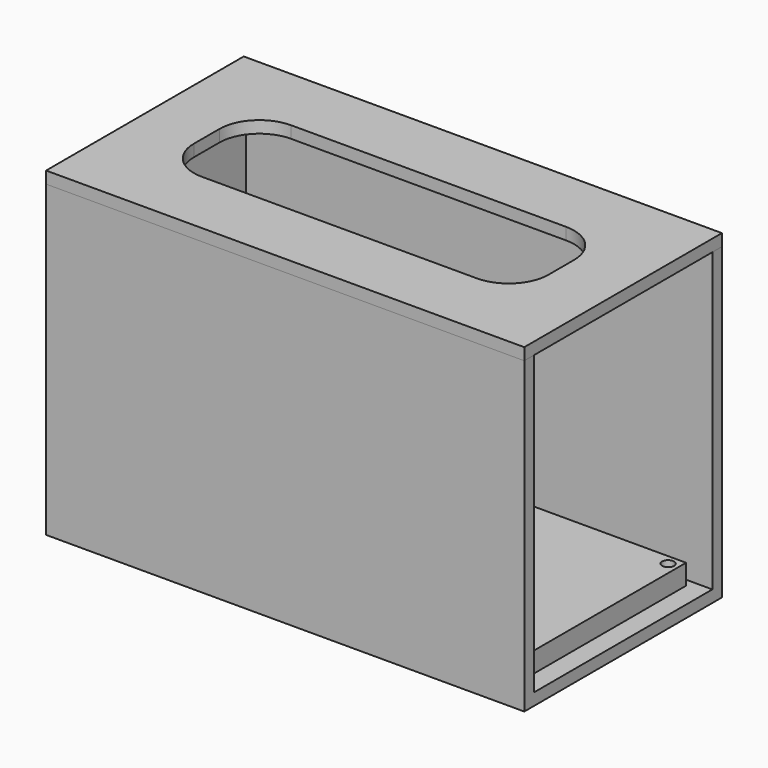
from build123d import *

# Parameters (mm, degrees)
F0_W      = 120
F0_H      = 62
F1_DEPTH  = 77.5
F3_DEPTH  = 74.5
F5_DEPTH  = 3
F7_DEPTH  = 5.08
F9_DEPTH  = 5.08
F11_DEPTH = 5.08


with BuildPart() as f1:
    # F0 (on Top) → F1 (new body)
    with BuildSketch(Plane.XY):
        with Locations((-4.624794, -16.188201)):
            Rectangle(F0_W, F0_H)
    extrude(amount=F1_DEPTH)

    # F2 (on face) → F3 (cut)
    with BuildSketch(Plane.XY.offset(77.5)):
        Polygon((55.375206, -44.188201), (55.375206, 11.811799), (24.783194, 11.811799), (-61.624794, 11.811799), (-61.624794, -16.188201), (-61.624794, -44.188201), (24.551408, -44.188201), align=None)
    extrude(amount=-F3_DEPTH, mode=Mode.SUBTRACT)

    # F8 (on face) → F9 (join)
    with BuildSketch(Plane.XY.offset(3)):
        Polygon((-31.624794, -41.188201), (-31.624794, -26.188201), (-58.624794, -26.188201), (-58.624794, -33.688201), (-58.624794, -41.188201), (-45.124794, -41.188201), align=None)
    extrude(amount=F9_DEPTH)

    # F10 (on face) → F11 (join)
    with BuildSketch(Plane.XY.offset(3)):
        Polygon((-9.124794, -25.16969), (-9.124794, 11.811799), (-54.124794, 11.811799), (-54.124794, -6.66969), (-54.124794, -25.16969), align=None)
    extrude(amount=F11_DEPTH)


with BuildPart() as f5:
    # F4 (on face) → F5 (new body)
    with BuildSketch(Plane.XY.offset(77.5)):
        with BuildLine():
            Line((-21.697029, 14.811799), (-64.624794, 14.811799))
            Line((-64.624794, 14.811799), (-64.624794, -18.261954))
            Line((-64.624794, -18.261954), (-49.124794, -18.261954))
            Line((-49.124794, -18.261954), (-49.124794, -12.188201))
            ThreePointArc((-49.124794, -12.188201), (-46.195862, -5.117134), (-39.124794, -2.188201))
            Line((-39.124794, -2.188201), (-21.697029, -2.188201))
            Line((-21.697029, -2.188201), (-21.697029, 14.811799))
        make_face()
        with BuildLine():
            Line((-21.697029, 14.811799), (-64.624794, 14.811799))
            Line((-64.624794, 14.811799), (-64.624794, -18.261954))
            Line((-64.624794, -18.261954), (-49.124794, -18.261954))
            Line((-49.124794, -18.261954), (-49.124794, -12.188201))
            ThreePointArc((-49.124794, -12.188201), (-46.195862, -5.117134), (-39.124794, -2.188201))
            Line((-39.124794, -2.188201), (-21.697029, -2.188201))
            Line((-21.697029, -2.188201), (-21.697029, 14.811799))
        make_face()
        with BuildLine():
            Line((55.375206, 14.811799), (-21.697029, 14.811799))
            Line((-21.697029, 14.811799), (-21.697029, -2.188201))
            Line((-21.697029, -2.188201), (29.875206, -2.188201))
            ThreePointArc((29.875206, -2.188201), (36.946274, -5.117134), (39.875206, -12.188201))
            Line((39.875206, -12.188201), (39.875206, -18.825031))
            Line((39.875206, -18.825031), (55.375206, -18.825031))
            Line((55.375206, -18.825031), (55.375206, 14.811799))
        make_face()
        with BuildLine():
            Line((55.375206, -47.188201), (55.375206, -18.825031))
            Line((55.375206, -18.825031), (39.875206, -18.825031))
            Line((39.875206, -18.825031), (39.875206, -20.188201))
            ThreePointArc((39.875206, -20.188201), (36.946274, -27.259269), (29.875206, -30.188201))
            Line((29.875206, -30.188201), (-20.468894, -30.188201))
            Line((-20.468894, -30.188201), (-20.468894, -47.188201))
            Line((-20.468894, -47.188201), (55.375206, -47.188201))
        make_face()
        with BuildLine():
            Line((-49.124794, -18.261954), (-64.624794, -18.261954))
            Line((-64.624794, -18.261954), (-64.624794, -47.188201))
            Line((-64.624794, -47.188201), (-20.468894, -47.188201))
            Line((-20.468894, -47.188201), (-20.468894, -30.188201))
            Line((-20.468894, -30.188201), (-39.124794, -30.188201))
            ThreePointArc((-39.124794, -30.188201), (-46.195862, -27.259269), (-49.124794, -20.188201))
            Line((-49.124794, -20.188201), (-49.124794, -18.261954))
        make_face()
        with BuildLine():
            Line((-49.124794, -18.261954), (-64.624794, -18.261954))
            Line((-64.624794, -18.261954), (-64.624794, -47.188201))
            Line((-64.624794, -47.188201), (-20.468894, -47.188201))
            Line((-20.468894, -47.188201), (-20.468894, -30.188201))
            Line((-20.468894, -30.188201), (-39.124794, -30.188201))
            ThreePointArc((-39.124794, -30.188201), (-46.195862, -27.259269), (-49.124794, -20.188201))
            Line((-49.124794, -20.188201), (-49.124794, -18.261954))
        make_face()
        with BuildLine():
            Line((55.375206, -47.188201), (55.375206, -18.825031))
            Line((55.375206, -18.825031), (39.875206, -18.825031))
            Line((39.875206, -18.825031), (39.875206, -20.188201))
            ThreePointArc((39.875206, -20.188201), (36.946274, -27.259269), (29.875206, -30.188201))
            Line((29.875206, -30.188201), (-20.468894, -30.188201))
            Line((-20.468894, -30.188201), (-20.468894, -47.188201))
            Line((-20.468894, -47.188201), (55.375206, -47.188201))
        make_face()
        with BuildLine():
            Line((55.375206, 14.811799), (-21.697029, 14.811799))
            Line((-21.697029, 14.811799), (-21.697029, -2.188201))
            Line((-21.697029, -2.188201), (29.875206, -2.188201))
            ThreePointArc((29.875206, -2.188201), (36.946274, -5.117134), (39.875206, -12.188201))
            Line((39.875206, -12.188201), (39.875206, -18.825031))
            Line((39.875206, -18.825031), (55.375206, -18.825031))
            Line((55.375206, -18.825031), (55.375206, 14.811799))
        make_face()
    extrude(amount=F5_DEPTH)


with BuildPart() as f7:
    # F6 (on face) → F7 (new body)
    with BuildSketch(Plane.XY.offset(3)):
        with BuildLine():
            Line((50.375206, -13.575806), (50.375206, 9.811799))
            Line((50.375206, 9.811799), (48.935866, 8.372459))
            ThreePointArc((48.935866, 8.372459), (49.261025, 7.885824), (49.375206, 7.311799))
            ThreePointArc((49.375206, 7.311799), (48.449231, 5.925979), (46.814546, 6.251138))
            Line((46.814546, 6.251138), (45.375206, 4.811799))
            Line((45.375206, 4.811799), (45.375206, -37.188201))
            Line((45.375206, -37.188201), (46.814546, -38.627541))
            ThreePointArc((46.814546, -38.627541), (48.449231, -38.302382), (49.375206, -39.688201))
            ThreePointArc((49.375206, -39.688201), (49.261025, -40.262227), (48.935866, -40.748862))
            Line((48.935866, -40.748862), (50.375206, -42.188201))
            Line((50.375206, -42.188201), (50.375206, -13.575806))
        make_face()
        with BuildLine():
            Line((48.935866, 8.372459), (50.375206, 9.811799))
            Line((50.375206, 9.811799), (24.375206, 9.811799))
            Line((24.375206, 9.811799), (-1.624794, 9.811799))
            Line((-1.624794, 9.811799), (-0.185454, 8.372459))
            ThreePointArc((-0.185454, 8.372459), (1.449231, 8.697618), (2.375206, 7.311799))
            ThreePointArc((2.375206, 7.311799), (2.261025, 6.737773), (1.935866, 6.251138))
            Line((1.935866, 6.251138), (3.375206, 4.811799))
            Line((3.375206, 4.811799), (45.375206, 4.811799))
            Line((45.375206, 4.811799), (46.814546, 6.251138))
            ThreePointArc((46.814546, 6.251138), (46.814546, 8.372459), (48.935866, 8.372459))
        make_face()
        with BuildLine():
            Line((-0.185454, 8.372459), (-1.624794, 9.811799))
            Line((-1.624794, 9.811799), (-1.624794, -13.117866))
            Line((-1.624794, -13.117866), (3.375206, -13.117866))
            Line((3.375206, -13.117866), (3.375206, 4.811799))
            Line((3.375206, 4.811799), (1.935866, 6.251138))
            ThreePointArc((1.935866, 6.251138), (-0.185454, 6.251138), (-0.185454, 8.372459))
        make_face()
        with BuildLine():
            Line((3.375206, -13.117866), (-1.624794, -13.117866))
            Line((-1.624794, -13.117866), (-1.624794, -42.188201))
            Line((-1.624794, -42.188201), (-0.185454, -40.748862))
            ThreePointArc((-0.185454, -40.748862), (-0.185454, -38.627541), (1.935866, -38.627541))
            Line((1.935866, -38.627541), (3.375206, -37.188201))
            Line((3.375206, -37.188201), (3.375206, -13.117866))
        make_face()
        Polygon((45.375206, -37.188201), (45.375206, 4.811799), (3.375206, 4.811799), (3.375206, -13.117866), (3.375206, -37.188201), align=None)
        with BuildLine():
            Line((24.375206, -42.188201), (50.375206, -42.188201))
            Line((50.375206, -42.188201), (48.935866, -40.748862))
            ThreePointArc((48.935866, -40.748862), (46.814546, -40.748862), (46.814546, -38.627541))
            Line((46.814546, -38.627541), (45.375206, -37.188201))
            Line((45.375206, -37.188201), (3.375206, -37.188201))
            Line((3.375206, -37.188201), (1.935866, -38.627541))
            ThreePointArc((1.935866, -38.627541), (2.261025, -39.114176), (2.375206, -39.688201))
            ThreePointArc((2.375206, -39.688201), (1.449231, -41.074021), (-0.185454, -40.748862))
            Line((-0.185454, -40.748862), (-1.624794, -42.188201))
            Line((-1.624794, -42.188201), (24.375206, -42.188201))
        make_face()
    extrude(amount=F7_DEPTH)


solid = Compound([f1.part, f5.part, f7.part])
